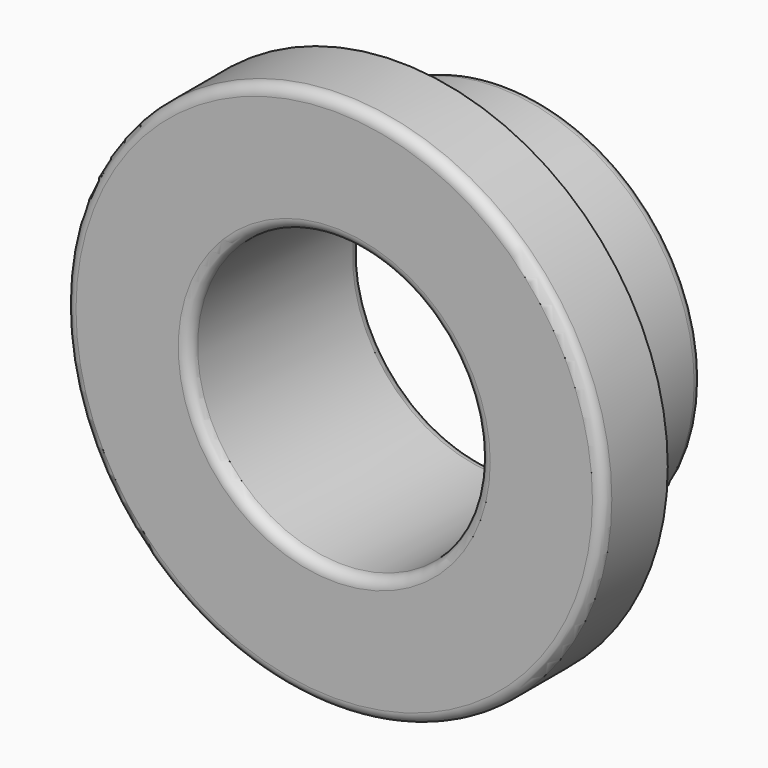
from build123d import *

# Parameters (mm, degrees)
F0_R     = 4.6355
F0_R_2   = 3.429
F1_DEPTH = 3.175
F2_R     = 6.35
F2_R_2   = 4.6355
F2_R_3   = 3.429
F3_DEPTH = 1.905
F4_R     = 0.254


with BuildPart() as f1:
    # F0 (on Front) → F1 (new body)
    with BuildSketch(Plane.XZ):
        Circle(F0_R)
        Circle(F0_R_2, mode=Mode.SUBTRACT)
    extrude(amount=F1_DEPTH)

    # F2 (on face) → F3 (join)
    with BuildSketch(Plane.XZ.offset(3.175)):
        Circle(F2_R)
        Circle(F2_R_2, mode=Mode.SUBTRACT)
        Circle(F2_R_2)
        Circle(F2_R_3, mode=Mode.SUBTRACT)
    extrude(amount=F3_DEPTH)

    # F4
    f4_edges = [f1.edges().sort_by_distance(p)[0] for p in [
        (-6.35, -5.08, 0),
        (-3.429, -5.08, 0),
        (-4.6355, 0, 0),
        (-3.429, 0, 0),
    ]]
    fillet(f4_edges, radius=F4_R)


solid = f1.part
